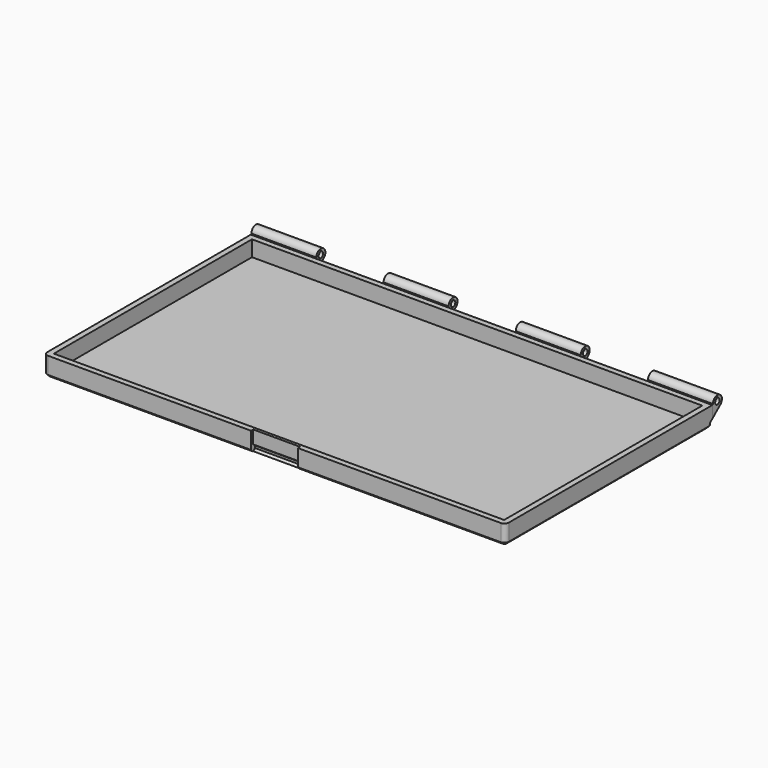
from build123d import *

# Parameters (mm, degrees)
SKETCH_W            = 205
SKETCH_H            = 115
PAD_DEPTH           = 1.5
SKETCH001_W         = 205
SKETCH001_H         = 115
SKETCH001_W_2       = 200
SKETCH001_H_2       = 110
PAD001_DEPTH        = 7
SKETCH004_W         = 20.8
SKETCH004_H         = 1.2
POCKET_DEPTH        = 1.501
POCKET_DEPTH_BACK   = 7.001
POCKET001_DEPTH     = 10.4
PAD007_DEPTH        = 28.857143
LINEARPATTERN_COUNT = 4
LINEARPATTERN_PITCH = 58.714286
FILLET_R            = 2
CHAMFER_SIZE        = 1


with BuildPart() as part:
    # Sketch → Pad (new body)
    with BuildSketch(Plane.XY):
        Rectangle(SKETCH_W, SKETCH_H)
    extrude(amount=-PAD_DEPTH)

    # Sketch001 → Pad001 (join)
    with BuildSketch(Plane.XY):
        Rectangle(SKETCH001_W, SKETCH001_H)
        Rectangle(SKETCH001_W_2, SKETCH001_H_2, mode=Mode.SUBTRACT)
    extrude(amount=PAD001_DEPTH)

    # Sketch004 → Pocket (cut, two sides)
    with BuildSketch(Plane.XY) as pocket_sk:
        with Locations((0, -56.9)):
            Rectangle(SKETCH004_W, SKETCH004_H)
    extrude(amount=-POCKET_DEPTH, mode=Mode.SUBTRACT)
    extrude(pocket_sk.sketch, amount=POCKET_DEPTH_BACK, mode=Mode.SUBTRACT)

    # Sketch005 → Pocket001 (cut, symmetric)
    with BuildSketch(Plane.YZ):
        Polygon((-56.3, -1.5), (-55.3, -0.6609), (-55.3, 0.3391), (-56.3, 1.178199), align=None)
    extrude(amount=POCKET001_DEPTH, both=True, mode=Mode.SUBTRACT)

    # Sketch008 → Pad007 (join)
    with BuildSketch(Plane.YZ.offset(-102.5)):
        with BuildLine():
            Line((57.5, 7), (57.8, 7.3))
            ThreePointArc((61.906969, 5.384889), (61.356546, 9.565769), (57.8, 7.3))
            Line((61.906969, 5.384889), (57.5, 1.687003))
            Line((57.5, 7), (57.5, 1.687003))
        make_face()
        with BuildLine():
            Line((59.41611, 8.183877), (60.3, 9.067767))
            Line((60.3, 9.067767), (61.183875, 8.183892))
            ThreePointArc((59.41611, 8.183877), (60.30001, 6.05), (61.183875, 8.183892))
        make_face(mode=Mode.SUBTRACT)
    pad007 = extrude(amount=PAD007_DEPTH)

    # LinearPattern: Pad007 ×4
    with Locations(*[(i * LINEARPATTERN_PITCH, 0, 0) for i in range(1, LINEARPATTERN_COUNT)]):
        add(pad007)

    # Fillet
    fillet_edges = [part.edges().sort_by_distance(p)[0] for p in [
        (102.5, -57.5, 2.75),
        (102.5, 57.5, 0.093501),
        (-102.5, 57.5, 0.093501),
        (-102.5, -57.5, 2.75),
    ]]
    fillet(fillet_edges, radius=FILLET_R)

    # Chamfer
    chamfer_edges = [part.edges().sort_by_distance(p)[0] for p in [
        (55.45, -57.5, -1.5),
    ]]
    chamfer(chamfer_edges, length=CHAMFER_SIZE)


solid = part.part
